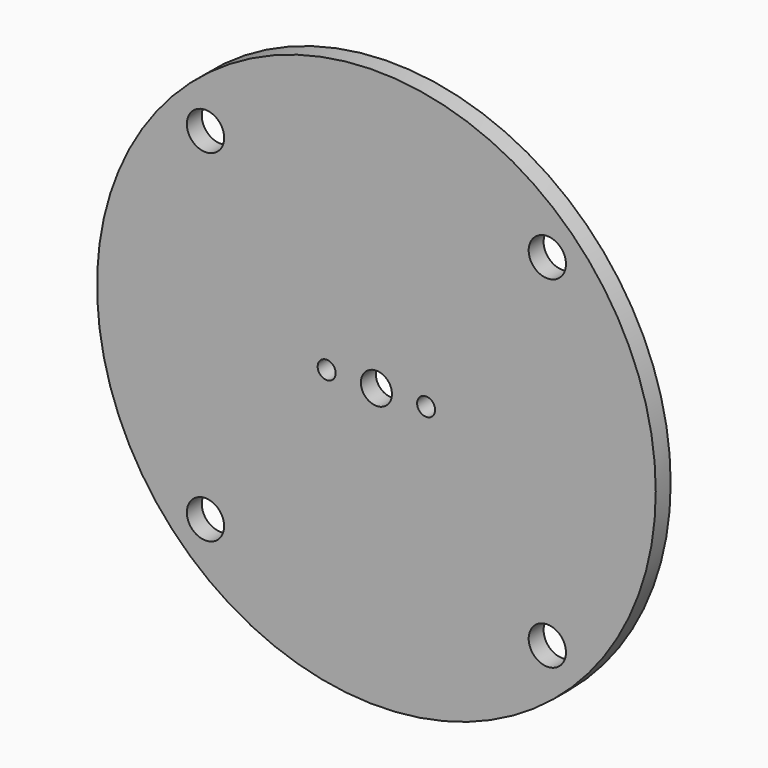
from build123d import *

# Parameters (mm, degrees)
F0_R     = 44.95
F1_DEPTH = 3
F2_R     = 1.45
F2_R_2   = 2.5
F3_DEPTH = 3.001
F4_R     = 3
F5_DEPTH = 3.001


with BuildPart() as f1:
    # F0 (on Front) → F1 (new body)
    with BuildSketch(Plane.XZ):
        Circle(F0_R)
    extrude(amount=F1_DEPTH)

    # F2 (on face) → F3 (cut, through all)
    with BuildSketch(Plane.XZ.offset(3)):
        with Locations((-8, 0)):
            Circle(F2_R)
        with Locations((8, 0)):
            Circle(F2_R)
        Circle(F2_R_2)
    extrude(amount=-F3_DEPTH, mode=Mode.SUBTRACT)

    # F4 (on face) → F5 (cut, through all)
    with BuildSketch(Plane.XZ.offset(3)):
        with Locations((-27.5, 27.5)):
            Circle(F4_R)
        with Locations((27.5, 27.5)):
            Circle(F4_R)
        with Locations((-27.5, -27.5)):
            Circle(F4_R)
        with Locations((27.5, -27.5)):
            Circle(F4_R)
    extrude(amount=-F5_DEPTH, mode=Mode.SUBTRACT)


solid = f1.part
